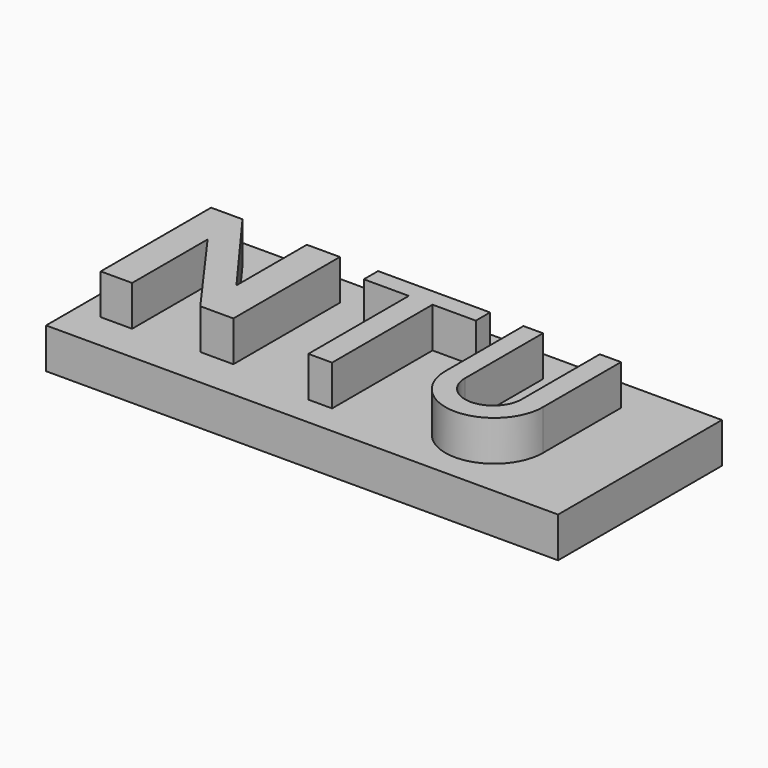
from build123d import *

# Parameters (mm, degrees)
F0_W     = 63.5
F0_H     = 25.4
F1_DEPTH = 5
F3_DEPTH = 5


with BuildPart() as f1:
    # F0 (on Top) → F1 (new body)
    with BuildSketch(Plane.XY):
        Rectangle(F0_W, F0_H)
    extrude(amount=F1_DEPTH)

    # F2 (on face) → F3 (join)
    with BuildSketch(Plane.XY.offset(5)):
        Polygon((-24.804629, 9.071067), (-28.701953, 9.071067), (-28.701953, -8.04209), (-24.804629, -8.04209), (-24.804629, 3.660008), (-16.603486, -7.72649), (-12.500686, -7.72649), (-12.500686, 8.78991), (-16.603486, 8.78991), (-16.603486, -2.125276), align=None)
        Polygon((-2.191087, 8.789911), (-7.766687, 8.789911), (-7.766687, 6.58071), (-2.191087, 6.58071), (-2.191087, -8.98889), (0.754514, -8.98889), (0.754514, 6.58071), (6.119713, 6.58071), (6.119713, 8.789911), (0.754514, 8.789911), align=None)
        with BuildLine():
            Line((12.852516, 8.579511), (10.432914, 8.579511))
            Line((10.432914, 8.579511), (10.432914, -3.51849))
            ThreePointArc((10.432914, -3.51849), (16.481915, -9.567491), (22.530915, -3.51849))
            Line((22.530915, -3.51849), (22.530915, 8.57951))
            Line((22.530915, 8.57951), (19.900914, 8.57951))
            Line((19.900914, 8.57951), (19.900914, -3.51849))
            ThreePointArc((19.900914, -3.51849), (16.376715, -7.042689), (12.852516, -3.51849))
            Line((12.852516, -3.51849), (12.852516, 8.579511))
        make_face()
    extrude(amount=F3_DEPTH)


solid = f1.part
